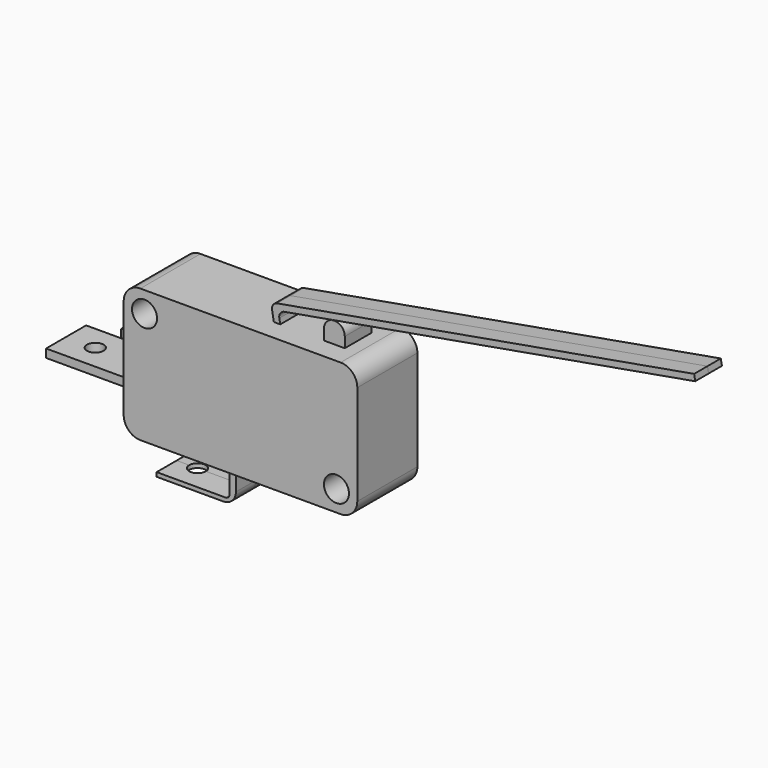
from build123d import *

# Parameters (mm, degrees)
F0_R           = 1.5
F1_DEPTH       = 4.5
F0_W           = 1.5
F0_H           = 1
F0_W_2         = 10.5
F2_DEPTH       = 3
F3_DEPTH       = 2
F4_DEPTH       = 4.5
F5_DEPTH       = 3
F6_DEPTH       = 2
F9_D           = 2
F9_DEPTH       = 1
F9_TIP         = 0.600860619
F9_ON_F8_D     = 2
F9_ON_F8_DEPTH = 1
F9_ON_F8_TIP   = 0.600860619


with BuildPart() as f1:
    # F0 (on Front) → F1 (new body)
    with BuildSketch(Plane.XZ):
        with BuildLine():
            Line((16.1163130835, 15.3639883176), (2.1163130835, 15.3639883176))
            ThreePointArc((2.1163130835, 15.3639883176), (0.7020995211, 14.77820188), (0.1163130835, 13.3639883176))
            Line((0.1163130835, 13.3639883176), (0.1163130835, 9.3639883176))
            Line((0.1163130835, 9.3639883176), (0.1163130835, 8.3639883176))
            Line((0.1163130835, 8.3639883176), (0.1163130835, 4.3639883176))
            Line((0.1163130835, 4.3639883176), (0.1163130835, 3.3639883176))
            Line((0.1163130835, 3.3639883176), (0.1163130835, 1.3639883176))
            ThreePointArc((0.1163130835, 1.3639883176), (0.7020995211, -0.0502252447), (2.1163130835, -0.6360116824))
            Line((2.1163130835, -0.6360116824), (11.6163130835, -0.6360116824))
            Line((11.6163130835, -0.6360116824), (12.3663130835, -0.6360116824))
            Line((12.3663130835, -0.6360116824), (26.1163130835, -0.6360116824))
            ThreePointArc((26.1163130835, -0.6360116824), (27.5305266458, -0.0502252447), (28.1163130835, 1.3639883176))
            Line((28.1163130835, 1.3639883176), (28.1163130835, 13.3639883176))
            ThreePointArc((28.1163130835, 13.3639883176), (27.5305266458, 14.77820188), (26.1163130835, 15.3639883176))
            Line((26.1163130835, 15.3639883176), (24.6163130835, 15.3639883176))
            Line((24.6163130835, 15.3639883176), (23.3663130835, 15.3639883176))
            Line((23.3663130835, 15.3639883176), (22.1163130835, 15.3639883176))
            Line((22.1163130835, 15.3639883176), (16.8778830424, 15.3639883176))
            Line((16.8778830424, 15.3639883176), (16.1163130835, 15.3639883176))
        make_face()
        with Locations((25.6163130835, 1.8639883176)):
            Circle(F0_R, mode=Mode.SUBTRACT)
        with Locations((2.6163130835, 12.8639883176)):
            Circle(F0_R, mode=Mode.SUBTRACT)
    extrude(amount=F1_DEPTH)

    # F0 (on Front) → F2 (join)
    with BuildSketch(Plane.XZ):
        with Locations((-0.6336869165, 8.8639883176)):
            Rectangle(F0_W, F0_H)
        with Locations((-5.1336869165, 3.8639883176)):
            Rectangle(F0_W_2, F0_H)
        with BuildLine():
            Line((12.3663130835, -0.6360116824), (11.6163130835, -0.6360116824))
            Line((11.6163130835, -0.6360116824), (11.6163130835, -3.8694406524))
            ThreePointArc((11.6163130835, -3.8694406524), (11.4698664741, -4.222994043), (11.1163130835, -4.3694406524))
            Line((11.1163130835, -4.3694406524), (2.8663130835, -4.3694406524))
            Line((2.8663130835, -4.3694406524), (2.8663130835, -4.8694406524))
            Line((2.8663130835, -4.8694406524), (10.8663130835, -4.8694406524))
            ThreePointArc((10.8663130835, -4.8694406524), (11.9269732552, -4.4301008242), (12.3663130835, -3.3694406524))
            Line((12.3663130835, -3.3694406524), (12.3663130835, -0.6360116824))
        make_face()
    extrude(amount=F2_DEPTH)

    # F0 (on Front) → F3 (join)
    with BuildSketch(Plane.XZ):
        with BuildLine():
            Line((15.8992528614, 16.5949980089), (16.1163130835, 15.3639883176))
            Line((16.1163130835, 15.3639883176), (16.8778830424, 15.3639883176))
            Line((16.8778830424, 15.3639883176), (16.7680948094, 15.9866283274))
            ThreePointArc((16.7680948094, 15.9866283274), (16.8923365909, 16.5470467879), (17.3764644909, 16.8554702754))
            Line((17.3764644909, 16.8554702754), (66.6168521415, 25.5378791587))
            Line((66.6168521415, 25.5378791587), (66.4866160083, 26.2764849735))
            Line((66.4866160083, 26.2764849735), (16.5076225429, 17.4638399569))
            ThreePointArc((16.5076225429, 17.4638399569), (16.0234946429, 17.1554164694), (15.8992528614, 16.5949980089))
        make_face()
        with BuildLine():
            ThreePointArc((24.6163130835, 16.6139883176), (24.25019656, 15.7301048411), (23.3663130835, 15.3639883176))
            Line((23.3663130835, 15.3639883176), (24.6163130835, 15.3639883176))
            Line((24.6163130835, 15.3639883176), (24.6163130835, 16.6139883176))
        make_face()
        with BuildLine():
            Line((22.1163130835, 16.6139883176), (22.1163130835, 15.3639883176))
            Line((22.1163130835, 15.3639883176), (23.3663130835, 15.3639883176))
            ThreePointArc((23.3663130835, 15.3639883176), (22.482429607, 15.7301048411), (22.1163130835, 16.6139883176))
        make_face()
        with BuildLine():
            ThreePointArc((22.1163130835, 16.6139883176), (22.482429607, 15.7301048411), (23.3663130835, 15.3639883176))
            ThreePointArc((23.3663130835, 15.3639883176), (24.25019656, 15.7301048411), (24.6163130835, 16.6139883176))
            Line((24.6163130835, 16.6139883176), (22.1163130835, 16.6139883176))
        make_face()
        with BuildLine():
            ThreePointArc((24.6163130835, 16.6139883176), (23.3663130835, 17.8639883176), (22.1163130835, 16.6139883176))
            Line((22.1163130835, 16.6139883176), (24.6163130835, 16.6139883176))
        make_face()
    extrude(amount=F3_DEPTH)

    # F0 (on Front) → F4 (join)
    with BuildSketch(Plane.XZ):
        with BuildLine():
            Line((16.1163130835, 15.3639883176), (2.1163130835, 15.3639883176))
            ThreePointArc((2.1163130835, 15.3639883176), (0.7020995211, 14.77820188), (0.1163130835, 13.3639883176))
            Line((0.1163130835, 13.3639883176), (0.1163130835, 9.3639883176))
            Line((0.1163130835, 9.3639883176), (0.1163130835, 8.3639883176))
            Line((0.1163130835, 8.3639883176), (0.1163130835, 4.3639883176))
            Line((0.1163130835, 4.3639883176), (0.1163130835, 3.3639883176))
            Line((0.1163130835, 3.3639883176), (0.1163130835, 1.3639883176))
            ThreePointArc((0.1163130835, 1.3639883176), (0.7020995211, -0.0502252447), (2.1163130835, -0.6360116824))
            Line((2.1163130835, -0.6360116824), (11.6163130835, -0.6360116824))
            Line((11.6163130835, -0.6360116824), (12.3663130835, -0.6360116824))
            Line((12.3663130835, -0.6360116824), (26.1163130835, -0.6360116824))
            ThreePointArc((26.1163130835, -0.6360116824), (27.5305266458, -0.0502252447), (28.1163130835, 1.3639883176))
            Line((28.1163130835, 1.3639883176), (28.1163130835, 13.3639883176))
            ThreePointArc((28.1163130835, 13.3639883176), (27.5305266458, 14.77820188), (26.1163130835, 15.3639883176))
            Line((26.1163130835, 15.3639883176), (24.6163130835, 15.3639883176))
            Line((24.6163130835, 15.3639883176), (23.3663130835, 15.3639883176))
            Line((23.3663130835, 15.3639883176), (22.1163130835, 15.3639883176))
            Line((22.1163130835, 15.3639883176), (16.8778830424, 15.3639883176))
            Line((16.8778830424, 15.3639883176), (16.1163130835, 15.3639883176))
        make_face()
        with Locations((25.6163130835, 1.8639883176)):
            Circle(F0_R, mode=Mode.SUBTRACT)
        with Locations((2.6163130835, 12.8639883176)):
            Circle(F0_R, mode=Mode.SUBTRACT)
    extrude(amount=-F4_DEPTH)

    # F0 (on Front) → F5 (join)
    with BuildSketch(Plane.XZ):
        with Locations((-0.6336869165, 8.8639883176)):
            Rectangle(F0_W, F0_H)
        with Locations((-5.1336869165, 3.8639883176)):
            Rectangle(F0_W_2, F0_H)
        with BuildLine():
            Line((12.3663130835, -0.6360116824), (11.6163130835, -0.6360116824))
            Line((11.6163130835, -0.6360116824), (11.6163130835, -3.8694406524))
            ThreePointArc((11.6163130835, -3.8694406524), (11.4698664741, -4.222994043), (11.1163130835, -4.3694406524))
            Line((11.1163130835, -4.3694406524), (2.8663130835, -4.3694406524))
            Line((2.8663130835, -4.3694406524), (2.8663130835, -4.8694406524))
            Line((2.8663130835, -4.8694406524), (10.8663130835, -4.8694406524))
            ThreePointArc((10.8663130835, -4.8694406524), (11.9269732552, -4.4301008242), (12.3663130835, -3.3694406524))
            Line((12.3663130835, -3.3694406524), (12.3663130835, -0.6360116824))
        make_face()
    extrude(amount=-F5_DEPTH)

    # F0 (on Front) → F6 (join)
    with BuildSketch(Plane.XZ):
        with BuildLine():
            ThreePointArc((24.6163130835, 16.6139883176), (23.3663130835, 17.8639883176), (22.1163130835, 16.6139883176))
            Line((22.1163130835, 16.6139883176), (24.6163130835, 16.6139883176))
        make_face()
        with BuildLine():
            ThreePointArc((22.1163130835, 16.6139883176), (22.482429607, 15.7301048411), (23.3663130835, 15.3639883176))
            ThreePointArc((23.3663130835, 15.3639883176), (24.25019656, 15.7301048411), (24.6163130835, 16.6139883176))
            Line((24.6163130835, 16.6139883176), (22.1163130835, 16.6139883176))
        make_face()
        with BuildLine():
            ThreePointArc((24.6163130835, 16.6139883176), (24.25019656, 15.7301048411), (23.3663130835, 15.3639883176))
            Line((23.3663130835, 15.3639883176), (24.6163130835, 15.3639883176))
            Line((24.6163130835, 15.3639883176), (24.6163130835, 16.6139883176))
        make_face()
        with BuildLine():
            Line((22.1163130835, 16.6139883176), (22.1163130835, 15.3639883176))
            Line((22.1163130835, 15.3639883176), (23.3663130835, 15.3639883176))
            ThreePointArc((23.3663130835, 15.3639883176), (22.482429607, 15.7301048411), (22.1163130835, 16.6139883176))
        make_face()
        with BuildLine():
            Line((15.8992528614, 16.5949980089), (16.1163130835, 15.3639883176))
            Line((16.1163130835, 15.3639883176), (16.8778830424, 15.3639883176))
            Line((16.8778830424, 15.3639883176), (16.7680948094, 15.9866283274))
            ThreePointArc((16.7680948094, 15.9866283274), (16.8923365909, 16.5470467879), (17.3764644909, 16.8554702754))
            Line((17.3764644909, 16.8554702754), (66.6168521415, 25.5378791587))
            Line((66.6168521415, 25.5378791587), (66.4866160083, 26.2764849735))
            Line((66.4866160083, 26.2764849735), (16.5076225429, 17.4638399569))
            ThreePointArc((16.5076225429, 17.4638399569), (16.0234946429, 17.1554164694), (15.8992528614, 16.5949980089))
        make_face()
    extrude(amount=-F6_DEPTH)

    # F9
    with Locations(Plane(origin=(0, 0, -4.8694406524), x_dir=(1, 0, 0), z_dir=(0, 0, -1))):
        with Locations((5.3663130835, 0)):
            Hole(F9_D / 2, depth=F9_DEPTH)
            with Locations((0, 0, -(F9_DEPTH + F9_TIP / 2))):  # 118° drill point
                Cone(0, F9_D / 2, F9_TIP, mode=Mode.SUBTRACT)

    # F9 on F8
    with Locations(Plane(origin=(0, 0, 3.3639883176), x_dir=(1, 0, 0), z_dir=(0, 0, -1))):
        with Locations((-6.8836869165, 0)):
            Hole(F9_ON_F8_D / 2, depth=F9_ON_F8_DEPTH)
            with Locations((0, 0, -(F9_ON_F8_DEPTH + F9_ON_F8_TIP / 2))):  # 118° drill point
                Cone(0, F9_ON_F8_D / 2, F9_ON_F8_TIP, mode=Mode.SUBTRACT)


solid = f1.part
